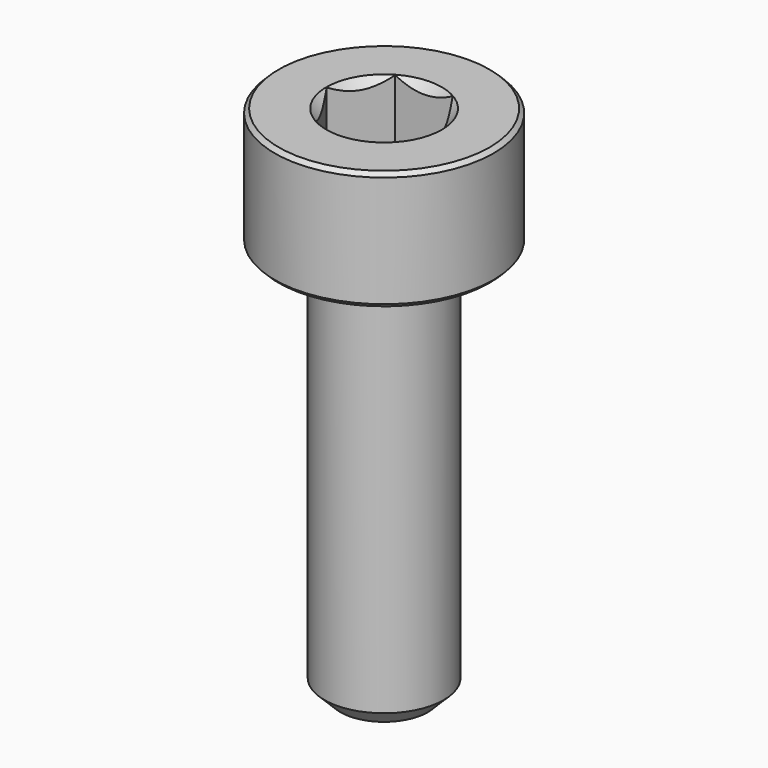
from build123d import *

# Parameters (mm, degrees)
SKETCH048_R     = 3.75
POCKET019_DEPTH = 9.70192
CHAMFER026_SIZE = 0.4
CHAMFER025_SIZE = 0.1


with BuildPart() as pocket019:
    # Sketch050 → Revolution013 (revolve)
    with BuildSketch(Plane.XZ):
        Polygon((0, 0.29908), (2.75, 1.3), (2.75, 10), (0, 10), align=None)
    revolve(axis=Axis((0, 0, 0), (0, 0, 1)))

    # Sketch048 (on Face3 of Revolution013) → Pocket019 (cut, through all)
    with BuildSketch(Plane(origin=(0, 0, 10), x_dir=(-1, 0, 0), z_dir=(0, 0, 1))):
        Circle(SKETCH048_R)
        Polygon((-0.721688, 1.25), (0.721688, 1.25), (1.443376, 0), (0.721688, -1.25), (-0.721688, -1.25), (-1.443376, 0), align=None, mode=Mode.SUBTRACT)
    extrude(amount=-POCKET019_DEPTH, mode=Mode.SUBTRACT)


with BuildPart() as chamfer025:
    # Sketch049 → Revolution012 (revolve)
    with BuildSketch(Plane.XZ):
        Polygon((1.45, 3), (2.75, 3), (2.75, 0), (1.5, 0), (1.5, -10), (0, -10), (0, 1.549999), align=None)
    revolve(axis=Axis((0, 0, 0), (0, 0, 1)))

    # Cut002005: cut Pocket019
    add(pocket019.part, mode=Mode.SUBTRACT)

    # Chamfer026
    chamfer026_edges = [chamfer025.edges().sort_by_distance(p)[0] for p in [
        (-1.5, 0, -10),
    ]]
    chamfer(chamfer026_edges, length=CHAMFER026_SIZE)

    # Chamfer025
    chamfer025_edges = [chamfer025.edges().sort_by_distance(p)[0] for p in [
        (-2.75, 0, 0),
        (-2.75, 0, 3),
    ]]
    chamfer(chamfer025_edges, length=CHAMFER025_SIZE)


solid = chamfer025.part
